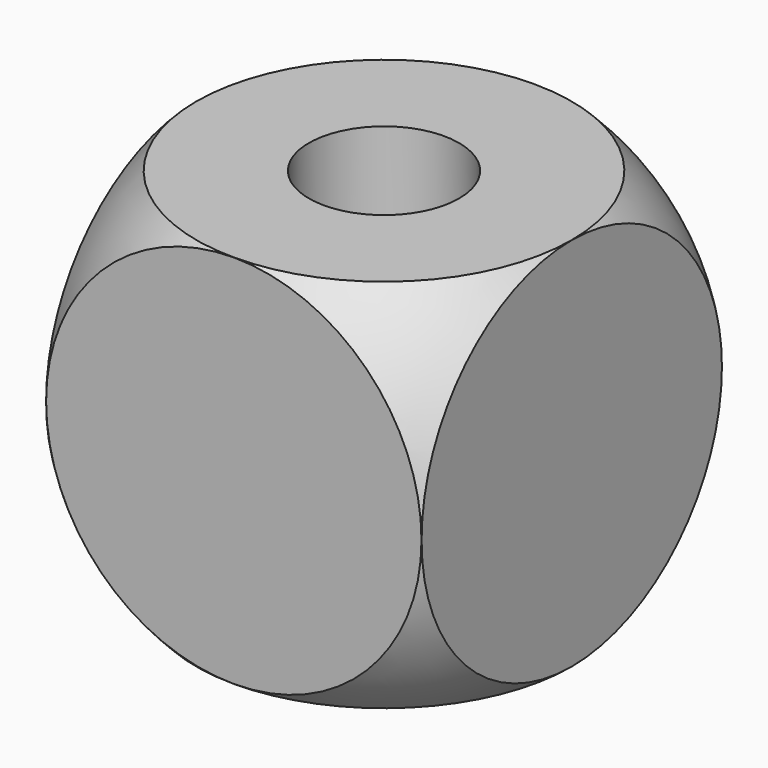
from build123d import *

# Parameters (mm, degrees)
F3_W      = 890.734077
F3_H      = 1319.233716
F4_DEPTH  = 254
F6_W      = 1012.359947
F6_H      = 1290.58224
F7_DEPTH  = 254
F10_DEPTH = 254
F12_W     = 1270.54733
F12_H     = 1196.680188
F13_DEPTH = 254
F15_W     = 950.985431
F15_H     = 1887.960911
F16_DEPTH = 254
F19_DEPTH = 254
F20_R     = 101.6
F21_DEPTH = 152.4


with BuildPart() as f1:
    # F0 (on Front) → F1 (revolve)
    with BuildSketch(Plane.XZ):
        with BuildLine():
            Line((-359.156, 0), (0, 0))
            Line((0, 0), (359.156, 0))
            ThreePointArc((359.156, 0), (0, 359.156), (-359.156, 0))
        make_face()
    revolve(axis=Axis((179.578, 0, 0), (1, 0, 0)))

    # F3 (on offset) → F4 (cut)
    with BuildSketch(Plane.XZ.offset(254)):
        with Locations((-42.36114, 63.51766)):
            Rectangle(F3_W, F3_H)
    extrude(amount=F4_DEPTH, mode=Mode.SUBTRACT)

    # F6 (on offset) → F7 (cut)
    with BuildSketch(Plane.XZ.offset(-254)):
        with Locations((-90.278938, 130.936891)):
            Rectangle(F6_W, F6_H)
    extrude(amount=-F7_DEPTH, mode=Mode.SUBTRACT)

    # F9 (on offset) → F10 (cut)
    with BuildSketch(Plane.XY.offset(254)):
        Polygon((-582.261324, -515.396833), (446.441472, -515.396833), (446.441472, -508.58891), (456.421018, -508.58891), (456.421018, 446.415097), (-582.261324, 446.415097), align=None)
    extrude(amount=F10_DEPTH, mode=Mode.SUBTRACT)

    # F12 (on offset) → F13 (cut)
    with BuildSketch(Plane.XY.offset(-254)):
        with Locations((82.284361, 80.805302)):
            Rectangle(F12_W, F12_H)
    extrude(amount=-F13_DEPTH, mode=Mode.SUBTRACT)

    # F15 (on offset) → F16 (cut)
    with BuildSketch(Plane.YZ.offset(-254)):
        with Locations((-55.342019, -317.589998)):
            Rectangle(F15_W, F15_H)
    extrude(amount=-F16_DEPTH, mode=Mode.SUBTRACT)

    # F18 (on offset) → F19 (cut)
    with BuildSketch(Plane.YZ.offset(254)):
        Polygon((-462.633133, 1110.26144), (-462.633133, 1077.45111), (-462.633133, -1249.087334), (636.57546, -1249.087334), (636.57546, 1110.26144), align=None)
    extrude(amount=F19_DEPTH, mode=Mode.SUBTRACT)

    # F20 (on face) → F21 (cut)
    with BuildSketch(Plane.XY.offset(254)):
        Circle(F20_R)
    extrude(amount=-F21_DEPTH, mode=Mode.SUBTRACT)


solid = f1.part
